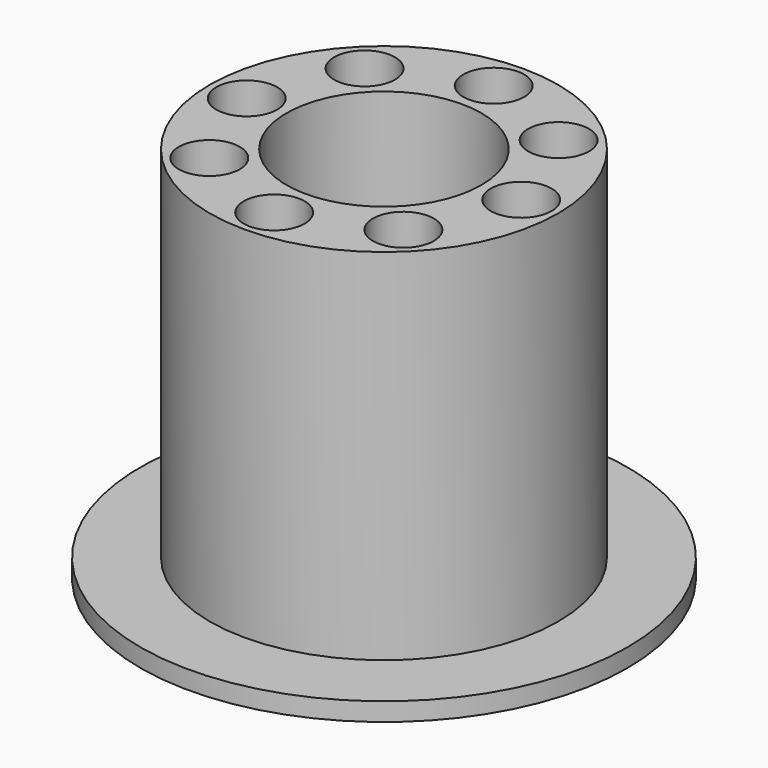
from build123d import *

# Parameters (mm, degrees)
F0_R     = 40
F0_R_2   = 28.6
F1_DEPTH = 3
F0_R_3   = 5
F0_R_4   = 16
F2_DEPTH = 62


with BuildPart() as f1:
    # F0 (on Top) → F1 (new body)
    with BuildSketch(Plane.XY):
        Circle(F0_R)
        Circle(F0_R_2, mode=Mode.SUBTRACT)
    extrude(amount=F1_DEPTH)

    # F0 (on Top) → F2 (join)
    with BuildSketch(Plane.XY):
        Circle(F0_R_2)
        with Locations((-15.932082, -15.932082)):
            Circle(F0_R_3, mode=Mode.SUBTRACT)
        with Locations((0, -22.531367)):
            Circle(F0_R_3, mode=Mode.SUBTRACT)
        with Locations((15.932082, -15.932082)):
            Circle(F0_R_3, mode=Mode.SUBTRACT)
        with Locations((-22.531367, 0)):
            Circle(F0_R_3, mode=Mode.SUBTRACT)
        with Locations((-15.932082, 15.932082)):
            Circle(F0_R_3, mode=Mode.SUBTRACT)
        Circle(F0_R_4, mode=Mode.SUBTRACT)
        with Locations((15.932082, 15.932082)):
            Circle(F0_R_3, mode=Mode.SUBTRACT)
        with Locations((22.531367, 0)):
            Circle(F0_R_3, mode=Mode.SUBTRACT)
        with Locations((0, 22.531367)):
            Circle(F0_R_3, mode=Mode.SUBTRACT)
    extrude(amount=F2_DEPTH)


solid = f1.part
